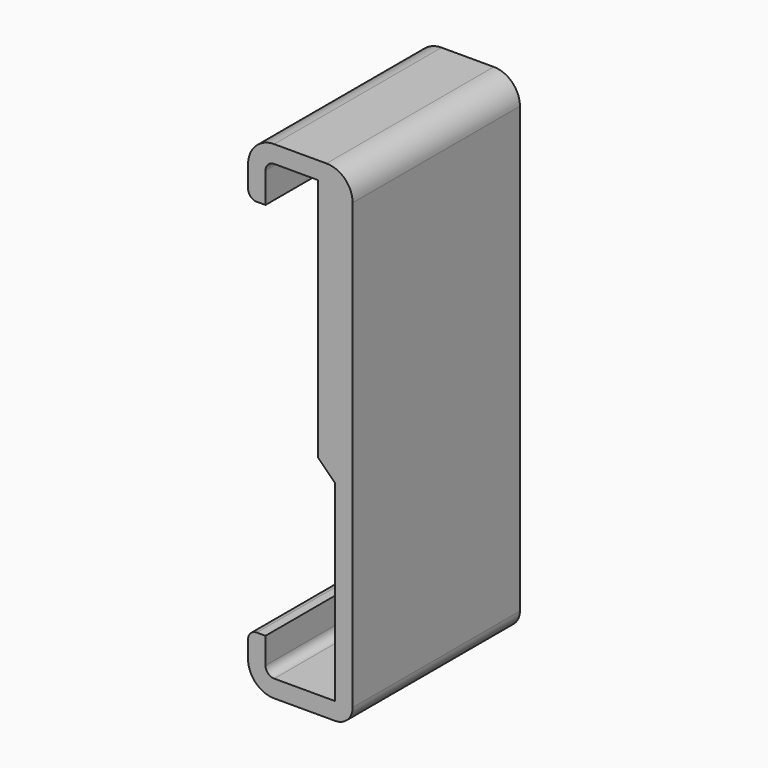
from build123d import *

# Parameters (mm, degrees)
F1_DEPTH = 38.1
F2_R     = 12.7
F3_DEPTH = 3.175


with BuildPart() as f1:
    # F0 (on Front) → F1 (new body)
    with BuildSketch(Plane.XZ):
        with BuildLine():
            ThreePointArc((0, 4.7625), (1.394904, 1.394904), (4.7625, 0))
            Line((4.7625, 0), (15.875, 0))
            ThreePointArc((15.875, 0), (18.120064, 0.929936), (19.05, 3.175))
            Line((19.05, 3.175), (19.05, 84.1375))
            ThreePointArc((19.05, 84.1375), (17.655096, 87.505096), (14.2875, 88.9))
            Line((14.2875, 88.9), (4.7625, 88.9))
            ThreePointArc((4.7625, 88.9), (1.394904, 87.505096), (0, 84.1375))
            Line((0, 84.1375), (0, 80.208295))
            ThreePointArc((0, 80.208295), (0.464968, 79.085763), (1.5875, 78.620795))
            Line((1.5875, 78.620795), (3.175, 78.620795))
            Line((3.175, 78.620795), (3.175, 84.1375))
            ThreePointArc((3.175, 84.1375), (3.639968, 85.260032), (4.7625, 85.725))
            Line((4.7625, 85.725), (12.7, 85.725))
            Line((12.7, 85.725), (12.7, 41.275))
            Line((12.7, 41.275), (15.875, 38.1))
            Line((15.875, 38.1), (15.875, 3.175))
            Line((15.875, 3.175), (4.7625, 3.175))
            ThreePointArc((4.7625, 3.175), (3.639968, 3.639968), (3.175, 4.7625))
            Line((3.175, 4.7625), (3.175, 9.525))
            Line((3.175, 9.525), (1.5875, 9.525))
            ThreePointArc((1.5875, 9.525), (0.464968, 9.060032), (0, 7.9375))
            Line((0, 7.9375), (0, 4.7625))
        make_face()
    extrude(amount=-F1_DEPTH)

    # F2 (on face) → F3 (cut)
    with BuildSketch(Plane(origin=(12.7, 0, 0), x_dir=(0, -1, 0), z_dir=(-1, 0, 0))):
        with Locations((-19.05, 61.9125)):
            Circle(F2_R)
    extrude(amount=-F3_DEPTH, mode=Mode.SUBTRACT)


solid = f1.part
